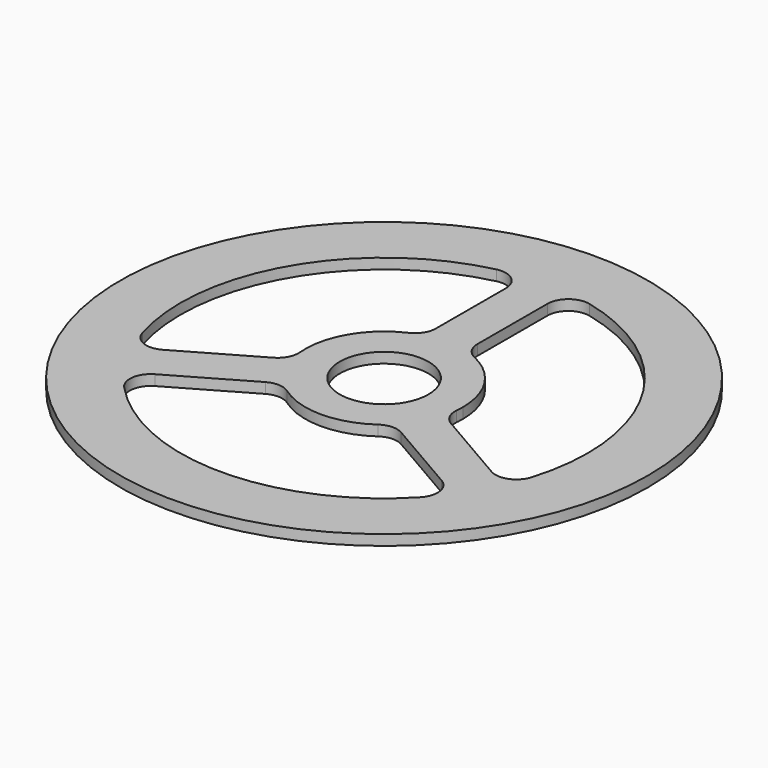
from build123d import *

# Parameters (mm, degrees)
F0_R     = 37.925
F0_R_2   = 6.375
F1_DEPTH = 1.5
F2_R     = 3


with BuildPart() as f1:
    # F0 (on Top) → F1 (new body)
    with BuildSketch(Plane.XY):
        Circle(F0_R)
        with BuildLine():
            ThreePointArc((3.048541, 29.090701), (21.733986, 19.575401), (29.25, 0))
            ThreePointArc((29.25, 0), (28.599096, -6.136302), (26.675353, -11.999501))
            ThreePointArc((26.675353, -11.999501), (25.30396, -14.672154), (23.665681, -17.190057))
            ThreePointArc((23.665681, -17.190057), (-0.054617, -29.249949), (-23.729712, -17.101557))
            ThreePointArc((-23.729712, -17.101557), (-25.358577, -14.577553), (-26.71998, -11.899798))
            ThreePointArc((-26.71998, -11.899798), (-25.305314, 14.66982), (-2.951451, 29.100712))
            ThreePointArc((-2.951451, 29.100712), (0.048802, 29.249959), (3.048541, 29.090701))
        make_face(mode=Mode.SUBTRACT)
        with BuildLine():
            Line((3.018216, 10.915402), (3.048541, 29.090701))
            ThreePointArc((3.048541, 29.090701), (0.048802, 29.249959), (-2.951451, 29.100712))
            Line((-2.951451, 29.100712), (-2.981776, 10.925413))
            ThreePointArc((-2.981776, 10.925413), (0.018895, 11.324984), (3.018216, 10.915402))
        make_face()
        with BuildLine():
            ThreePointArc((11.325, 0), (9.012129, 6.858365), (3.018216, 10.915402))
            ThreePointArc((3.018216, 10.915402), (0.018895, 11.324984), (-2.981776, 10.925413))
            ThreePointArc((-2.981776, 10.925413), (-9.797698, 5.679853), (-10.962702, -2.841617))
            ThreePointArc((-10.962702, -2.841617), (-9.818321, -5.64413), (-7.972435, -8.043377))
            ThreePointArc((-7.972435, -8.043377), (-0.021147, -11.32498), (7.942341, -8.073094))
            ThreePointArc((7.942341, -8.073094), (9.797174, -5.680757), (10.952013, -2.882538))
            ThreePointArc((10.952013, -2.882538), (11.231366, -1.453285), (11.325, 0))
        make_face()
        Circle(F0_R_2, mode=Mode.SUBTRACT)
        with BuildLine():
            Line((-10.962702, -2.841617), (-26.71998, -11.899798))
            ThreePointArc((-26.71998, -11.899798), (-25.358577, -14.577553), (-23.729712, -17.101557))
            Line((-23.729712, -17.101557), (-7.972435, -8.043377))
            ThreePointArc((-7.972435, -8.043377), (-9.818321, -5.64413), (-10.962702, -2.841617))
        make_face()
        with BuildLine():
            ThreePointArc((23.665681, -17.190057), (25.30396, -14.672154), (26.675353, -11.999501))
            Line((26.675353, -11.999501), (10.952013, -2.882538))
            ThreePointArc((10.952013, -2.882538), (9.797174, -5.680757), (7.942341, -8.073094))
            Line((7.942341, -8.073094), (23.665681, -17.190057))
        make_face()
    extrude(amount=F1_DEPTH)

    # F2
    f2_edges = [f1.edges().sort_by_distance(p)[0] for p in [
        (-7.972435, -8.043377, 0.75),
        (-23.729712, -17.101557, 0.75),
        (7.942341, -8.073094, 0.75),
        (3.048541, 29.090701, 0.75),
        (23.665681, -17.190057, 0.75),
        (26.675353, -11.999501, 0.75),
        (-2.951451, 29.100712, 0.75),
        (-26.71998, -11.899798, 0.75),
        (-2.981776, 10.925413, 0.75),
        (-10.962702, -2.841617, 0.75),
        (10.952013, -2.882538, 0.75),
        (3.018216, 10.915402, 0.75),
    ]]
    fillet(f2_edges, radius=F2_R)


solid = f1.part
